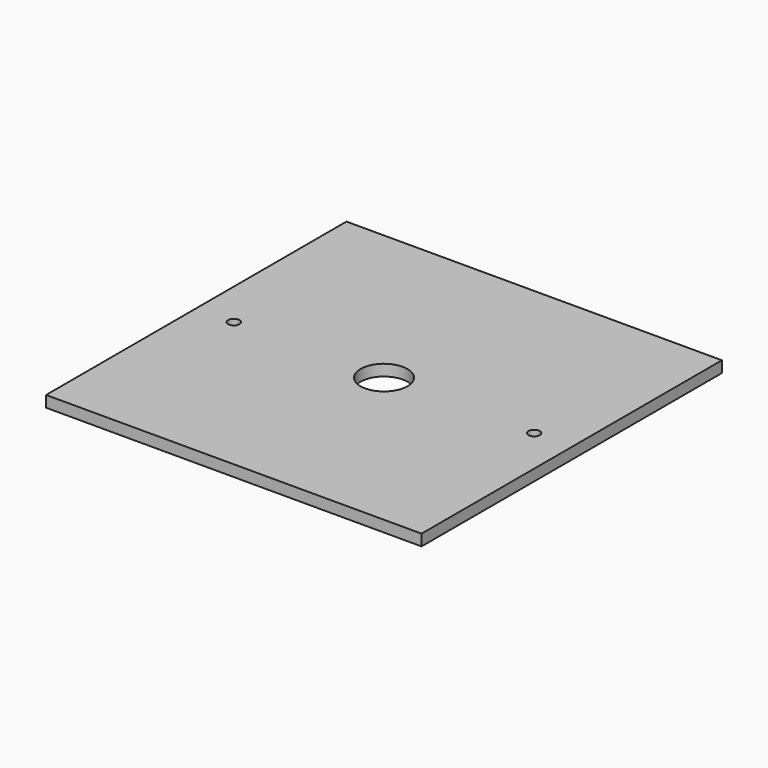
from build123d import *

# Parameters (mm, degrees)
F0_W     = 200
F0_H     = 200
F1_DEPTH = 6
F3_D     = 6
F5_D     = 25


with BuildPart() as f1:
    # F0 (on Top) → F1 (new body)
    with BuildSketch(Plane.XY):
        with Locations((100, 100)):
            Rectangle(F0_W, F0_H)
    extrude(amount=F1_DEPTH)

    # F3 (through all)
    with Locations(Plane.XY.offset(6)):
        with Locations((20, 100), (180, 100)):
            Hole(F3_D / 2)

    # F5 (through all)
    with Locations(Plane.XY.offset(6)):
        with Locations((100, 100)):
            Hole(F5_D / 2)


solid = f1.part
